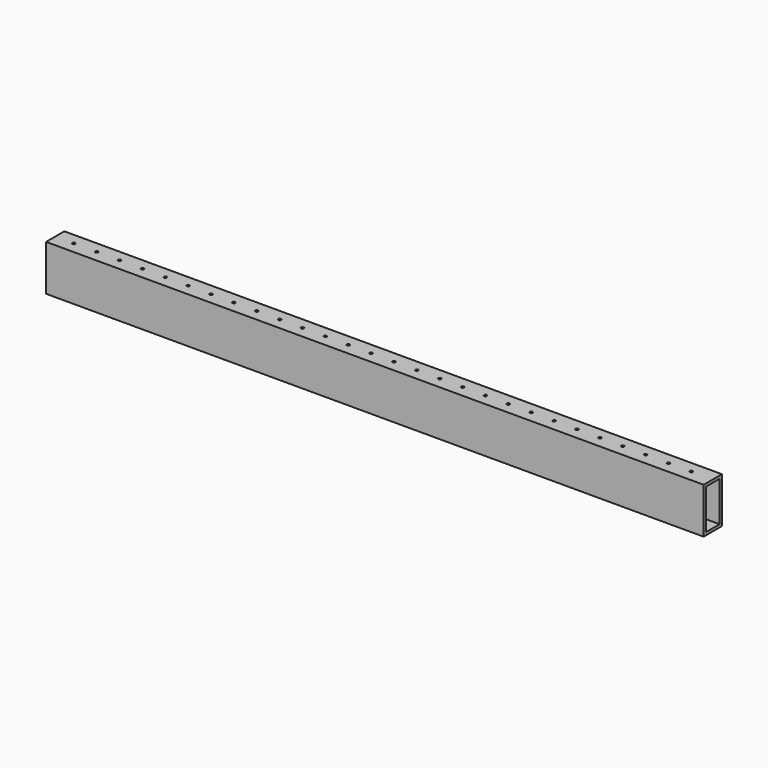
from build123d import *

# Parameters (mm, degrees)
F0_W     = 25.4
F0_H     = 50.8
F0_W_2   = 19.05
F0_H_2   = 44.45
F1_DEPTH = 730.25
F2_R     = 1.5875
F3_DEPTH = 50.801


with BuildPart() as f1:
    # F0 (on Right) → F1 (new body)
    with BuildSketch(Plane.YZ):
        Rectangle(F0_W, F0_H)
        Rectangle(F0_W_2, F0_H_2, mode=Mode.SUBTRACT)
    extrude(amount=F1_DEPTH)

    # F2 (on face) → F3 (cut, through all)
    with BuildSketch(Plane.XY.offset(25.4)):
        with Locations((20.6375, 0)):
            Circle(F2_R)
        with Locations((46.0375, 0)):
            Circle(F2_R)
        with Locations((71.4375, 0)):
            Circle(F2_R)
        with Locations((96.8375, 0)):
            Circle(F2_R)
        with Locations((122.2375, 0)):
            Circle(F2_R)
        with Locations((147.6375, 0)):
            Circle(F2_R)
        with Locations((173.0375, 0)):
            Circle(F2_R)
        with Locations((198.4375, 0)):
            Circle(F2_R)
        with Locations((223.8375, 0)):
            Circle(F2_R)
        with Locations((249.2375, 0)):
            Circle(F2_R)
        with Locations((274.6375, 0)):
            Circle(F2_R)
        with Locations((300.0375, 0)):
            Circle(F2_R)
        with Locations((325.4375, 0)):
            Circle(F2_R)
        with Locations((350.8375, 0)):
            Circle(F2_R)
        with Locations((376.2375, 0)):
            Circle(F2_R)
        with Locations((401.6375, 0)):
            Circle(F2_R)
        with Locations((427.0375, 0)):
            Circle(F2_R)
        with Locations((452.4375, 0)):
            Circle(F2_R)
        with Locations((477.8375, 0)):
            Circle(F2_R)
        with Locations((503.2375, 0)):
            Circle(F2_R)
        with Locations((528.6375, 0)):
            Circle(F2_R)
        with Locations((554.0375, 0)):
            Circle(F2_R)
        with Locations((579.4375, 0)):
            Circle(F2_R)
        with Locations((604.8375, 0)):
            Circle(F2_R)
        with Locations((630.2375, 0)):
            Circle(F2_R)
        with Locations((655.6375, 0)):
            Circle(F2_R)
        with Locations((681.0375, 0)):
            Circle(F2_R)
        with Locations((706.4375, 0)):
            Circle(F2_R)
        with Locations((731.8375, 0)):
            Circle(F2_R)
        with Locations((757.2375, 0)):
            Circle(F2_R)
    extrude(amount=-F3_DEPTH, mode=Mode.SUBTRACT)


solid = f1.part
